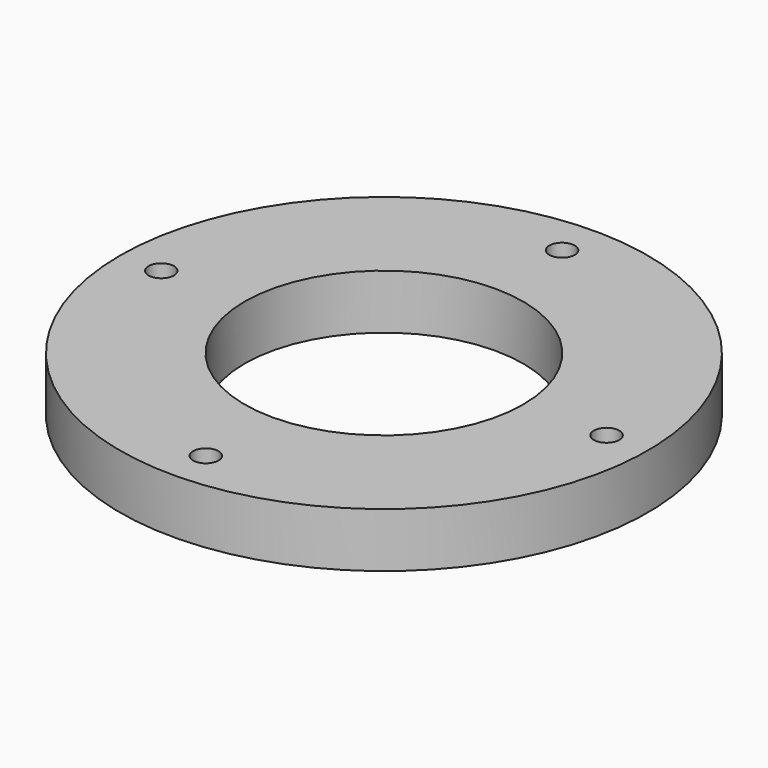
from build123d import *

# Parameters (mm, degrees)
F0_W           = 31.095594
F0_H           = 13.626158
F3_D           = 6.35
F3_CSINK_D     = 12.7
F3_CSINK_ANGLE = 90


with BuildPart() as f1:
    # F0 (on Front) → F1 (revolve)
    with BuildSketch(Plane.XZ):
        with Locations((-50.311968, 6.813079)):
            Rectangle(F0_W, F0_H)
    revolve(axis=Axis((0, 0, -5.066134), (0, 0, -1)))

    # F3 (through all)
    with Locations(Plane(origin=(0, 0, 0), x_dir=(1, 0, 0), z_dir=(0, 0, -1))):
        with Locations((55.552796, 0), (0, 55.552796), (-55.552796, 0), (0, -55.552796)):
            CounterSinkHole(F3_D / 2, F3_CSINK_D / 2, counter_sink_angle=F3_CSINK_ANGLE)


solid = f1.part
